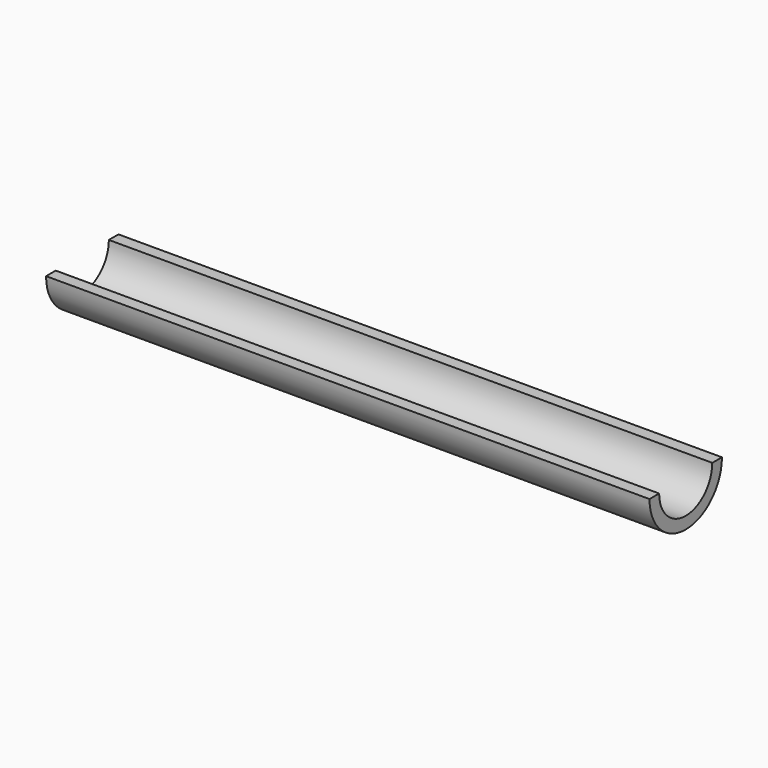
from build123d import *

# Parameters (mm, degrees)
F1_DEPTH = 63.5
F2_T     = -2.54


with BuildPart() as f1:
    # F0 (on Right) → F1 (new body, symmetric)
    with BuildSketch(Plane.YZ):
        with BuildLine():
            Line((9.525, 0), (-9.525, 0))
            ThreePointArc((-9.525, 0), (0, -9.525), (9.525, 0))
        make_face()
    extrude(amount=F1_DEPTH, both=True)

    # F2
    f2_openings = [f1.faces().sort_by_distance(p)[0] for p in [
        (63.5, 0, -4.042536),
        (0, 0, 0),
        (-63.5, 0, -4.042536),
    ]]
    offset(amount=F2_T, openings=f2_openings)


solid = f1.part
